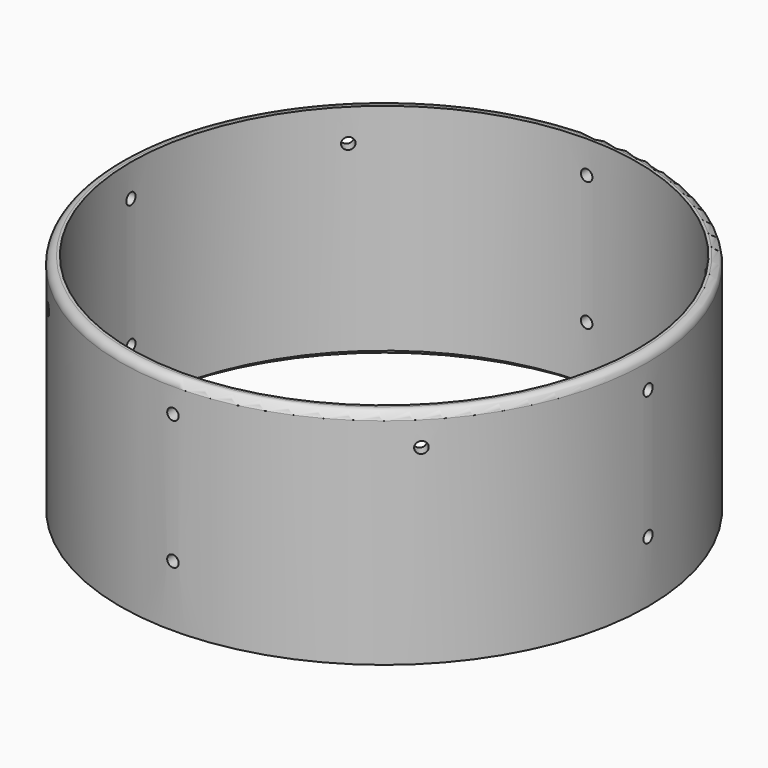
from build123d import *

# Parameters (mm, degrees)
SKETCH051_R                 = 2.8
EXTRUDE033_DEPTH            = 20
CYLINDER153_R               = 2.13
CYLINDER153_DEPTH           = 300
CYLINDER154_R               = 2.13
CYLINDER154_DEPTH           = 300
TUBE008_R                   = 98
TUBE008_R_2                 = 94
TUBE008_DEPTH               = 65
SKETCH050_R                 = 98
SKETCH050_R_2               = 76
EXTRUDE032_DEPTH            = 5
FILLET005_R                 = 3
TUBE007_R                   = 98
TUBE007_R_2                 = 95
TUBE007_DEPTH               = 3
CYLINDER150_R               = 2.13
CYLINDER150_DEPTH           = 300
CYLINDER150_ROLL_ANGLE      = 90
CYLINDER150_PLACEMENT_ANGLE = 45
CYLINDER149_R               = 2.13
CYLINDER149_DEPTH           = 300
CYLINDER149_ROLL_ANGLE      = 90
CYLINDER149_PLACEMENT_ANGLE = -45
CYLINDER147_R               = 2.13
CYLINDER147_DEPTH           = 300
CYLINDER148_R               = 2.13
CYLINDER148_DEPTH           = 300
CYLINDER139_R               = 2.13
CYLINDER139_DEPTH           = 300
CYLINDER140_R               = 2.13
CYLINDER140_DEPTH           = 300
TUBE002_R                   = 98
TUBE002_R_2                 = 94
TUBE002_DEPTH               = 80
FILLET006_R                 = 3


with BuildPart() as m4heatsetvercuts005:
    # Sketch051 → Extrude033 (new body)
    with BuildSketch(Plane.XY):
        with Locations((0, -68)):
            Circle(SKETCH051_R)
        with Locations((82, -150)):
            Circle(SKETCH051_R)
        with Locations((0, -232)):
            Circle(SKETCH051_R)
        with Locations((-82, -150)):
            Circle(SKETCH051_R)
    extrude(amount=EXTRUDE033_DEPTH)


with BuildPart() as m4heatsetvercuts005_1:
    # Extrude033 placement: moved
    add(m4heatsetvercuts005.part.moved(Location((0, 0, -193))))


with BuildPart() as cylinder153:
    # Cylinder153 → Cylinder153 (new body)
    with BuildSketch(Plane(origin=(0, 0, 90), x_dir=(1, 0, 0), z_dir=(0, -1, 0))):
        Circle(CYLINDER153_R)
    extrude(amount=CYLINDER153_DEPTH)


with BuildPart() as m4cuts016:
    # Cylinder154 → Cylinder154 (new body)
    with BuildSketch(Plane(origin=(-150, -150, 90), x_dir=(0, 1, 0), z_dir=(1, 0, 0))):
        Circle(CYLINDER154_R)
    extrude(amount=CYLINDER154_DEPTH)

    # Fusion099: union Cylinder153
    add(cylinder153.part)


with BuildPart() as m4cuts016_1:
    # Fusion099 placement: moved
    add(m4cuts016.part.moved(Location((0, 0, -321))))


with BuildPart() as tube008:
    # Tube008 → Tube008 (new body)
    with BuildSketch(Plane(origin=(0, -150, -125), x_dir=(1, 0, 0), z_dir=(0, 0, 1))):
        Circle(TUBE008_R)
        Circle(TUBE008_R_2, mode=Mode.SUBTRACT)
    extrude(amount=TUBE008_DEPTH)


with BuildPart() as level5s003:
    # Sketch050 → Extrude032 (new body)
    with BuildSketch(Plane.XY):
        with Locations((0, -150)):
            Circle(SKETCH050_R)
        with Locations((0, -150)):
            Circle(SKETCH050_R_2, mode=Mode.SUBTRACT)
    extrude(amount=EXTRUDE032_DEPTH)


with BuildPart() as level5s003_1:
    # Extrude032 placement: moved
    add(level5s003.part.moved(Location((0, 0, -65))))

    # Fusion098: union Tube008
    add(tube008.part)


with BuildPart() as level5s003_2:
    # Fusion098 placement: moved
    add(level5s003_1.part.moved(Location((0, 0, -125))))

    # Cut050: cut m4Cuts016
    add(m4cuts016_1.part, mode=Mode.SUBTRACT)

    # Cut051: cut m4HeatSetVerCuts005
    add(m4heatsetvercuts005_1.part, mode=Mode.SUBTRACT)

    # Fillet005
    fillet005_edges = [level5s003_2.edges().sort_by_distance(p)[0] for p in [
        (-98, -150, -185),
        (-98, -150, -250),
        (-94, -150, -190),
    ]]
    fillet(fillet005_edges, radius=FILLET005_R)


with BuildPart() as obj1:
    # Tube007 → Tube007 (new body)
    with BuildSketch(Plane(origin=(0, -150, -188), x_dir=(1, 0, 0), z_dir=(0, 0, 1))):
        Circle(TUBE007_R)
        Circle(TUBE007_R_2, mode=Mode.SUBTRACT)
    extrude(amount=TUBE007_DEPTH)

    # Cut052: cut level5s003
    add(level5s003_2.part, mode=Mode.SUBTRACT)


with BuildPart() as obj1_1:
    # Cut052 placement: moved
    add(obj1.part.moved(Location((0, 0, 125.25))))


with BuildPart() as cylinder150:
    # Cylinder150 → Cylinder150 (new body)
    with BuildSketch(Plane.XY):
        Circle(CYLINDER150_R)
    extrude(amount=CYLINDER150_DEPTH)


with BuildPart() as cylinder150_1:
    # Cylinder150 roll: moved
    add(cylinder150.part.rotate(Axis((0, 0, 0), (1, 0, 0)), CYLINDER150_ROLL_ANGLE))


with BuildPart() as cylinder150_2:
    # Cylinder150 placement: moved
    add(cylinder150_1.part.moved(Location((-106.066017, -43.933983, 90))).rotate(Axis((-106.066017, -43.933983, 90), (0, 0, 1)), CYLINDER150_PLACEMENT_ANGLE))


with BuildPart() as m4cuts013:
    # Cylinder149 → Cylinder149 (new body)
    with BuildSketch(Plane.XY):
        Circle(CYLINDER149_R)
    extrude(amount=CYLINDER149_DEPTH)


with BuildPart() as m4cuts013_1:
    # Cylinder149 roll: moved
    add(m4cuts013.part.rotate(Axis((0, 0, 0), (1, 0, 0)), CYLINDER149_ROLL_ANGLE))


with BuildPart() as m4cuts013_2:
    # Cylinder149 placement: moved
    add(m4cuts013_1.part.moved(Location((106.066017, -43.933983, 90))).rotate(Axis((106.066017, -43.933983, 90), (0, 0, 1)), CYLINDER149_PLACEMENT_ANGLE))

    # Fusion093: union Cylinder150
    add(cylinder150_2.part)


with BuildPart() as m4cuts013_3:
    # Fusion093 placement: moved
    add(m4cuts013_2.part.moved(Location((0, 0, -82))))


with BuildPart() as cylinder147:
    # Cylinder147 → Cylinder147 (new body)
    with BuildSketch(Plane(origin=(0, 0, 90), x_dir=(1, 0, 0), z_dir=(0, -1, 0))):
        Circle(CYLINDER147_R)
    extrude(amount=CYLINDER147_DEPTH)


with BuildPart() as m4cuts014:
    # Cylinder148 → Cylinder148 (new body)
    with BuildSketch(Plane(origin=(-150, -150, 90), x_dir=(0, 1, 0), z_dir=(1, 0, 0))):
        Circle(CYLINDER148_R)
    extrude(amount=CYLINDER148_DEPTH)

    # Fusion092: union Cylinder147
    add(cylinder147.part)


with BuildPart() as m4cuts014_1:
    # Fusion092 placement: moved
    add(m4cuts014.part.moved(Location((0, 0, -82))))

    # Fusion094: union m4Cuts013
    add(m4cuts013_3.part)


with BuildPart() as cylinder139:
    # Cylinder139 → Cylinder139 (new body)
    with BuildSketch(Plane(origin=(0, 0, 90), x_dir=(1, 0, 0), z_dir=(0, -1, 0))):
        Circle(CYLINDER139_R)
    extrude(amount=CYLINDER139_DEPTH)


with BuildPart() as m4cuts011:
    # Cylinder140 → Cylinder140 (new body)
    with BuildSketch(Plane(origin=(-150, -150, 90), x_dir=(0, 1, 0), z_dir=(1, 0, 0))):
        Circle(CYLINDER140_R)
    extrude(amount=CYLINDER140_DEPTH)

    # Fusion088: union Cylinder139
    add(cylinder139.part)


with BuildPart() as m4cuts011_1:
    # Fusion088 placement: moved
    add(m4cuts011.part.moved(Location((0, 0, -130))))


with BuildPart() as level003to2s:
    # Tube002 → Tube002 (new body)
    with BuildSketch(Plane(origin=(0, -150, -60), x_dir=(1, 0, 0), z_dir=(0, 0, 1))):
        Circle(TUBE002_R)
        Circle(TUBE002_R_2, mode=Mode.SUBTRACT)
    extrude(amount=TUBE002_DEPTH)

    # Cut044: cut m4Cuts011
    add(m4cuts011_1.part, mode=Mode.SUBTRACT)

    # Cut046: cut m4Cuts014
    add(m4cuts014_1.part, mode=Mode.SUBTRACT)

    # Fusion100: union obj1
    add(obj1_1.part)

    # Fillet006
    fillet006_edges = [level003to2s.edges().sort_by_distance(p)[0] for p in [
        (-98, -150, 20),
    ]]
    fillet(fillet006_edges, radius=FILLET006_R)


solid = level003to2s.part
